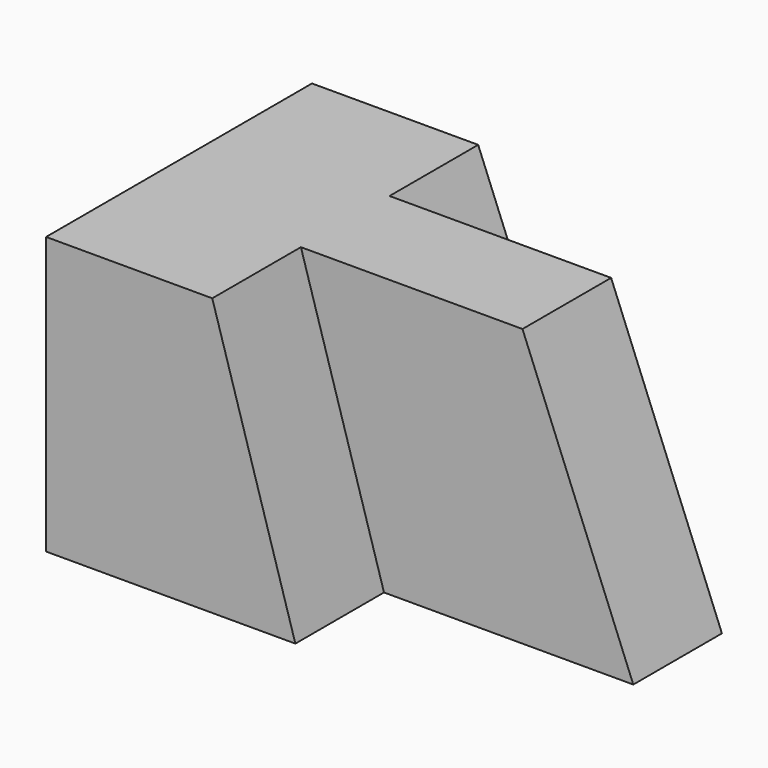
from build123d import *

# Parameters (mm, degrees)
F1_DEPTH = 25.4
F3_DEPTH = 12.7
F5_DEPTH = 12.7


with BuildPart() as f1:
    # F0 (on Front) → F1 (new body)
    with BuildSketch(Plane.XZ):
        Polygon((0, 31.75), (0, 0), (31.75, 0), (19.05, 31.75), align=None)
    extrude(amount=F1_DEPTH)

    # F2 (on face) → F3 (join)
    with BuildSketch(Plane.XZ.offset(25.4)):
        Polygon((19.05, 31.75), (31.75, 0), (57.15, 0), (44.45, 31.75), align=None)
    extrude(amount=-F3_DEPTH)

    # F4 (on face) → F5 (join)
    with BuildSketch(Plane.XZ.offset(25.4)):
        Polygon((0, 31.75), (0, 0), (28.575, 0), (19.05, 31.75), align=None)
    extrude(amount=F5_DEPTH)


solid = f1.part
